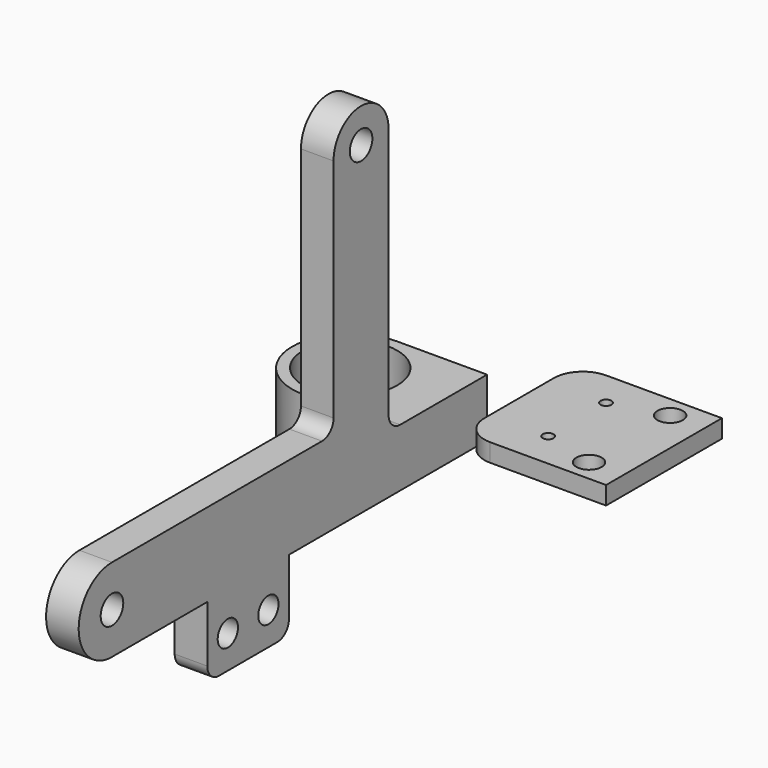
from build123d import *

# Parameters (mm, degrees)
F3_R     = 1.75
F3_R_2   = 1.95
F3_W     = 13
F3_H     = 8
F4_DEPTH = 4.5
F2_R     = 6.5
F5_DEPTH = 8
F6_SIZE  = 1
F7_R     = 2
F8_R     = 0.75
F8_R_2   = 1.75
F9_DEPTH = 2.5


with BuildPart() as f4:
    # F3 (on Right) → F4 (new body)
    with BuildSketch(Plane.YZ):
        with BuildLine():
            Line((36.6235950301, -26.7250053585), (36.6235950301, -18.7250053585))
            Line((36.6235950301, -18.7250053585), (34.6235950301, -18.7250053585))
            ThreePointArc((34.6235950301, -18.7250053585), (33.2093814677, -18.1392189208), (32.6235950301, -16.7250053585))
            Line((32.6235950301, -16.7250053585), (32.6235950301, 18.0249946415))
            ThreePointArc((32.6235950301, 18.0249946415), (27.8735950301, 22.7749946415), (23.1235950301, 18.0249946415))
            Line((23.1235950301, 18.0249946415), (23.1235950301, -13.2250053585))
            ThreePointArc((23.1235950301, -13.2250053585), (22.5378085924, -14.6392189208), (21.1235950301, -15.2250053585))
            Line((21.1235950301, -15.2250053585), (-15.1264049699, -15.2250053585))
            ThreePointArc((-15.1264049699, -15.2250053585), (-20.8764049699, -20.9750053585), (-15.1264049699, -26.7250053585))
            Line((-15.1264049699, -26.7250053585), (1.3235950301, -26.7250053585))
            Line((1.3235950301, -26.7250053585), (1.3235950301, -36.5250053585))
            Line((1.3235950301, -36.5250053585), (15.4235950301, -36.5250053585))
            Line((15.4235950301, -36.5250053585), (15.4235950301, -26.7250053585))
            Line((15.4235950301, -26.7250053585), (36.6235950301, -26.7250053585))
        make_face()
        with Locations((4.8735950301, -31.9750053585)):
            Circle(F3_R, mode=Mode.SUBTRACT)
        with Locations((11.8735950301, -31.9750053585)):
            Circle(F3_R, mode=Mode.SUBTRACT)
        with Locations((-15.1264049699, -20.9750053585)):
            Circle(F3_R_2, mode=Mode.SUBTRACT)
        with Locations((27.8735950301, 18.0249946415)):
            Circle(F3_R_2, mode=Mode.SUBTRACT)
        with Locations((43.1235950301, -22.7250053585)):
            Rectangle(F3_W, F3_H)
    extrude(amount=F4_DEPTH)

    # F2 (on line) → F5 (join, through all)
    with BuildSketch(Plane(origin=(0, 0, -26.7250053585), x_dir=(1, 0, 0), z_dir=(0, 0, -1))):
        with BuildLine():
            ThreePointArc((-8, -33.6235950301), (-16, -41.6235950301), (-8, -49.6235950301))
            ThreePointArc((-8, -49.6235950301), (-2.3431457505, -47.2804492795), (0, -41.6235950301))
            ThreePointArc((0, -41.6235950301), (-2.3431457505, -35.9667407806), (-8, -33.6235950301))
        make_face()
        with Locations((-8, -41.6235950301)):
            Circle(F2_R, mode=Mode.SUBTRACT)
        with BuildLine():
            ThreePointArc((0, -41.6235950301), (-2.3431457505, -47.2804492795), (-8, -49.6235950301))
            Line((-8, -49.6235950301), (0, -49.6235950301))
            Line((0, -49.6235950301), (0, -41.6235950301))
        make_face()
        with BuildLine():
            Line((0, -33.6235950301), (-8, -33.6235950301))
            ThreePointArc((-8, -33.6235950301), (-2.3431457505, -35.9667407806), (0, -41.6235950301))
            Line((0, -41.6235950301), (0, -33.6235950301))
        make_face()
    extrude(amount=-F5_DEPTH)

    # F6
    f6_edges = [f4.edges().sort_by_distance(p)[0] for p in [
        (0, 3.123595, -31.975005),
        (0, 10.123595, -31.975005),
    ]]
    chamfer(f6_edges, length=F6_SIZE)

    # F7
    f7_edges = [f4.edges().sort_by_distance(p)[0] for p in [
        (2.25, 15.423595, -36.525005),
        (2.25, 1.323595, -36.525005),
    ]]
    fillet(f7_edges, radius=F7_R)


with BuildPart() as f9:
    # F8 (on Top) → F9 (new body)
    with BuildSketch(Plane.XY):
        with BuildLine():
            Line((56.096283406, 5.6672617793), (56.096283406, 25.6672617793))
            Line((56.096283406, 25.6672617793), (40.096283406, 25.6672617793))
            ThreePointArc((40.096283406, 25.6672617793), (37.2678562813, 24.4956889041), (36.096283406, 21.6672617793))
            Line((36.096283406, 21.6672617793), (36.096283406, 9.6672617793))
            ThreePointArc((36.096283406, 9.6672617793), (37.2678562813, 6.8388346546), (40.096283406, 5.6672617793))
            Line((40.096283406, 5.6672617793), (56.096283406, 5.6672617793))
        make_face()
        with Locations((44.096283406, 10.6672617793)):
            Circle(F8_R, mode=Mode.SUBTRACT)
        with Locations((51.346283406, 8.6672617793)):
            Circle(F8_R_2, mode=Mode.SUBTRACT)
        with Locations((44.096283406, 20.6672617793)):
            Circle(F8_R, mode=Mode.SUBTRACT)
        with Locations((51.346283406, 22.6672617793)):
            Circle(F8_R_2, mode=Mode.SUBTRACT)
    extrude(amount=F9_DEPTH)


solid = Compound([f4.part, f9.part])
